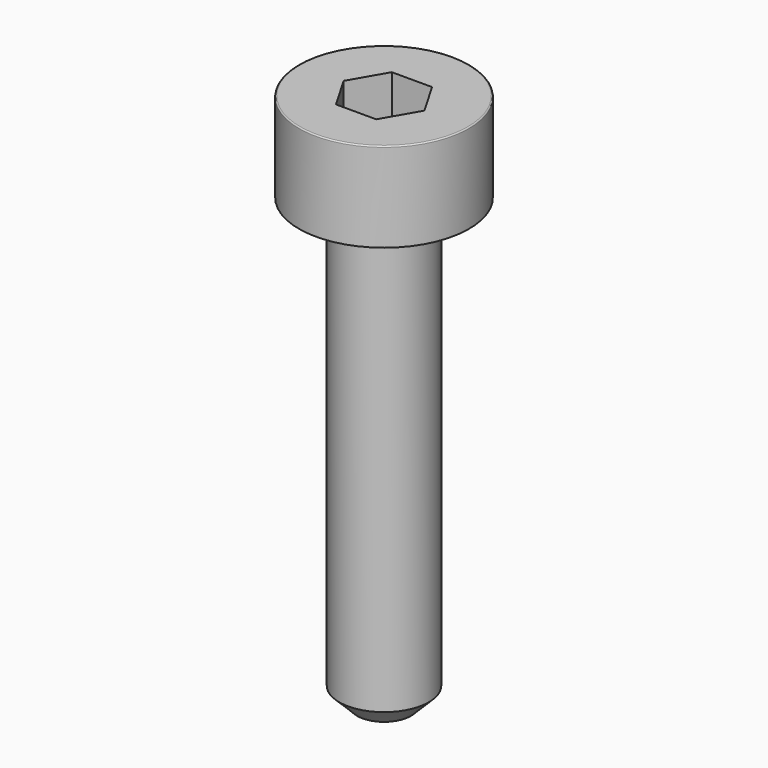
from build123d import *

# Parameters (mm, degrees)
POCKET_DEPTH = 1.56


with BuildPart() as part:
    # Sketch → Revolve (revolve)
    with BuildSketch(Plane.YZ):
        with BuildLine():
            Line((0.999, 0), (1.9, 0))
            Line((1.9, 0), (1.9, 1.97229))
            ThreePointArc((1.9, 1.97229), (1.891884, 1.991884), (1.87229, 2))
            Line((1.87229, 2), (0, 2))
            Line((0, -10), (0, 2))
            Line((0.6, -10), (0, -10))
            Line((1, -9.6), (0.6, -10))
            Line((1, -0.2), (1, -9.6))
            Line((0.999, 0), (1, -0.2))
        make_face()
    revolve(axis=Axis((0, 0, 0), (0, 0, 1)))

    # Sketch001 → Pocket (cut)
    with BuildSketch(Plane.XY.offset(2)):
        Polygon((0.900666, 0), (0.450333, 0.78), (-0.450333, 0.78), (-0.900666, 0), (-0.450333, -0.78), (0.450333, -0.78), align=None)
    extrude(amount=-POCKET_DEPTH, mode=Mode.SUBTRACT)


solid = part.part
